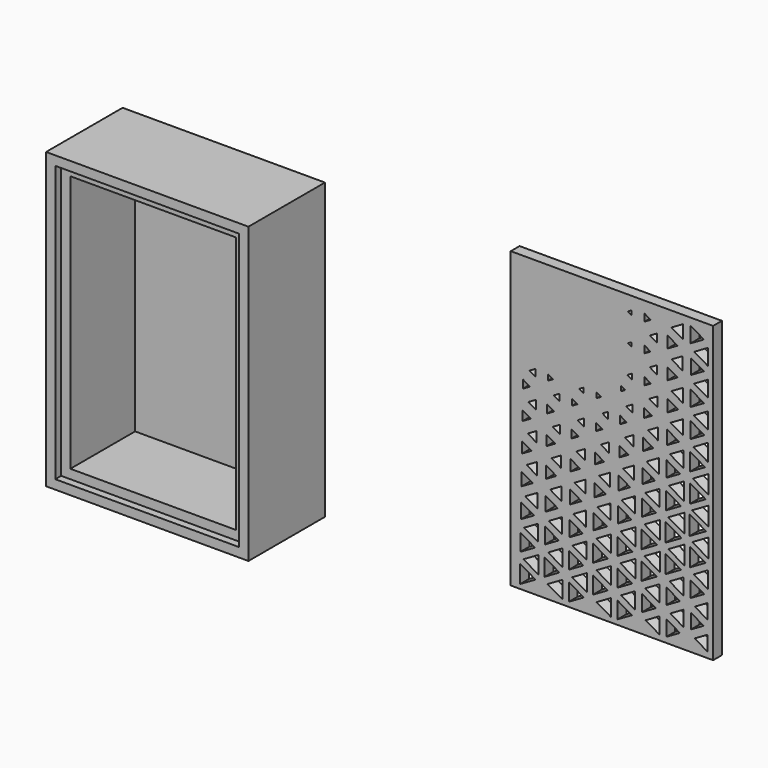
from build123d import *

# Parameters (mm, degrees)
F0_W          = 50
F0_H          = 75
F0_W_2        = 45
F0_H_2        = 70
F1_DEPTH      = 22
F0_W_3        = 55
F0_H_3        = 80
F2_DEPTH      = 24
F2_DEPTH_BACK = 2
F3_DEPTH      = 51.4
F4_DEPTH      = 3
F7_DEPTH      = 3


with BuildPart() as f1:
    # F0 (on Front) → F1 (new body)
    with BuildSketch(Plane.XZ):
        with Locations((-62.0216450095, -2.9959046841)):
            Rectangle(F0_W, F0_H)
        with Locations((-62.0216450095, -2.9959046841)):
            Rectangle(F0_W_2, F0_H_2, mode=Mode.SUBTRACT)
    extrude(amount=F1_DEPTH)

    # F0 (on Front) → F2 (join, two sides)
    with BuildSketch(Plane.XZ) as f2_sk:
        with Locations((-62.0216450095, -2.9959046841)):
            Rectangle(F0_W_3, F0_H_3)
        with Locations((-62.0216450095, -2.9959046841)):
            Rectangle(F0_W, F0_H, mode=Mode.SUBTRACT)
    extrude(amount=F2_DEPTH)
    extrude(f2_sk.sketch, amount=-F2_DEPTH_BACK)

    # F3 (add): a face of the model
    f3_faces = [f1.faces().sort_by_distance(p)[0] for p in [
        (-87.0216450095, 1, -2.9959046841),
    ]]
    extrude(f3_faces, amount=F3_DEPTH)


with BuildPart() as f4:
    # F4 (new): a face of the model
    f4_faces = [f1.part.faces().sort_by_distance(p)[0] for p in [
        (-62.0216450095, 2, -2.9959046841),
    ]]
    extrude(f4_faces, amount=F4_DEPTH)


with BuildPart() as f4_1:
    # F5: moved
    add(f4.part.moved(Location((105.5, 0, 0))))

    # F6 (on face) → F7 (cut)
    with BuildSketch(Plane(origin=(0, 5, 0), x_dir=(-1, 0, 0), z_dir=(0, 1, 0))):
        Polygon((-56.3958019513, -34.0205175695), (-52.5297159513, -31.7887845695), (-56.3958019513, -29.5567065695), align=None)
        Polygon((-69.5388409513, 19.3626154305), (-65.8109039513, 21.5151114305), (-69.5388409513, 23.6669174305), align=None)
        Polygon((-36.4969309513, -22.3995215695), (-32.9753539513, -20.3665705695), (-36.4969309513, -18.3336195695), align=None)
        Polygon((-22.9136079513, -6.4873145695), (-20.5750769513, -5.1368365695), (-22.9136079513, -3.7867035695), align=None)
        Polygon((-56.0257989513, 4.6937434305), (-53.2693779513, 6.2853774305), (-56.0257989513, 7.8766674305), align=None)
        Polygon((-69.6039539513, -26.4392405695), (-65.6803339513, -24.1737455695), (-69.6039539513, -21.9085945695), align=None)
        Polygon((-22.6524699513, 9.1940714305), (-21.0966649513, 10.0925524305), (-22.6524699513, 10.9913774305), align=None)
        Polygon((-43.2493179513, -34.0949315695), (-39.2543849513, -31.7887845695), (-43.2493179513, -29.4822925695), align=None)
        Polygon((-68.4591479513, 25.3222864305), (-64.9172459513, 23.2776214305), (-64.9172459513, 27.3669504305), align=None)
        Polygon((-42.1775489513, -20.3665705695), (-38.4909519513, -22.4949505695), (-38.4909519513, -18.2378455695), align=None)
        Polygon((-27.4780149513, 10.0925524305), (-26.0569129513, 9.2719304305), (-26.0569129513, 10.9131744305), align=None)
        Polygon((-54.3742199513, 10.0925524305), (-52.1762489513, 8.8233794305), (-52.1762489513, 11.3617254305), align=None)
        Polygon((-35.2374039513, -16.5593955695), (-32.0689489513, -18.3883965695), (-32.0689489513, -14.7297045695), align=None)
        Polygon((-21.4160249513, -1.3296615695), (-19.1956609513, -2.6112375695), (-19.1956609513, -0.0477415695), align=None)
        Polygon((-63.1492229513, -22.8742555695), (-58.8059909513, -20.3665705695), (-63.1492229513, -17.8588855695), align=None)
        Polygon((-42.8951619513, -10.6369315695), (-39.9630409513, -8.9443565695), (-42.8951619513, -7.2514365695), align=None)
        Polygon((-23.2329679513, -22.2699855695), (-19.9360119513, -20.3665705695), (-23.2329679513, -18.4631545695), align=None)
        Polygon((-55.8659459513, 12.5854234305), (-53.5890829513, 13.9000724305), (-55.8659459513, 15.2147204305), align=None)
        Polygon((-21.9627619513, -16.5593955695), (-18.9224649513, -18.3146715695), (-18.9224649513, -14.8037745695), align=None)
        Polygon((-28.0626479513, -5.1368365695), (-25.7644249513, -6.4638875695), (-25.7644249513, -3.8097855695), align=None)
        Polygon((-36.3102059513, -14.4613325695), (-33.3494909513, -12.7518755695), (-36.3102059513, -11.0424195695), align=None)
        Polygon((-49.5352389513, -6.9083045695), (-46.4670369513, -5.1368365695), (-49.5352389513, -3.3653685695), align=None)
        Polygon((-29.0527679513, -27.9812645695), (-25.2693639513, -30.1654555695), (-25.2693639513, -25.7970745695), align=None)
        Polygon((-47.9890799513, -1.3296615695), (-45.4769159513, -2.7803915695), (-45.4769159513, 0.1210684305), align=None)
        Polygon((-62.7123849513, 23.5711444305), (-59.6796669513, 25.3222864305), (-62.7123849513, 27.0727394305), align=None)
        Polygon((-53.9745889513, 25.3222864305), (-52.3760649513, 24.3993454305), (-52.3760649513, 26.2452274305), align=None)
        Polygon((-68.9559309513, -20.3665705695), (-64.6691989513, -22.8415265695), (-64.6691989513, -17.8912695695), align=None)
        Polygon((-56.5205149513, -26.6218305695), (-52.2802909513, -24.1737455695), (-56.5205149513, -21.7256605695), align=None)
        Polygon((-54.7700619513, 2.4782024305), (-51.9781559513, 0.8658974305), (-51.9781559513, 4.0894734305), align=None)
        Polygon((-49.7229969513, -14.8485605695), (-46.0911769513, -12.7518755695), (-49.7229969513, -10.6548465695), align=None)
        Polygon((-29.7576349513, -18.3411985695), (-26.6708289513, -16.5593955695), (-29.7576349513, -14.7769025695), align=None)
        Polygon((-69.7923999513, -11.5364455695), (-65.3034409513, -8.9443565695), (-69.7923999513, -6.3526105695), align=None)
        Polygon((-35.8998959513, 1.4787804305), (-34.1697689513, 2.4782024305), (-35.8998959513, 3.4765914305), align=None)
        Polygon((-49.8011999513, -37.8283815695), (-45.9351139513, -35.5963035695), (-49.8011999513, -33.3638815695), align=None)
        Polygon((-28.3795969513, -12.7518755695), (-25.6059499513, -14.3531565695), (-25.6059499513, -11.1502505695), align=None)
        Polygon((-62.9476849513, 0.3188164305), (-59.2087229513, 2.4782024305), (-62.9476849513, 4.6368994305), align=None)
        Polygon((-69.6470169513, 3.9458134305), (-65.5948959513, 6.2853774305), (-69.6470169513, 8.6249414305), align=None)
        Polygon((-48.9302799513, 16.9834324305), (-47.6762649513, 17.7072474305), (-48.9302799513, 18.4310614305), align=None)
        Polygon((-54.0290219513, 32.9369804305), (-52.3485039513, 31.9668414305), (-52.3485039513, 33.9067754305), align=None)
        Polygon((-62.2562539513, -8.9443565695), (-58.1269629513, -11.3283625695), (-58.1269629513, -6.5603505695), align=None)
        Polygon((-27.8070219513, 2.4782024305), (-25.8922379513, 1.3723264305), (-25.8922379513, 3.5833894305), align=None)
        Polygon((-68.5094469513, 17.7072474305), (-64.8920969513, 15.6191744305), (-64.8920969513, 19.7956634305), align=None)
        Polygon((-42.4255949513, 5.4058444305), (-40.9021739513, 6.2853774305), (-42.4255949513, 7.1645654305), align=None)
        Polygon((-23.0603689513, -14.3559125695), (-20.2815549513, -12.7518755695), (-23.0603689513, -11.1474945695), align=None)
        Polygon((-43.0894649513, -18.5885565695), (-39.5747789513, -16.5593955695), (-43.0894649513, -14.5298895695), align=None)
        Polygon((-62.7413229513, 15.9061514305), (-59.6217899513, 17.7072474305), (-62.7413229513, 19.5083424305), align=None)
        Polygon((-55.7122949513, -20.3665705695), (-51.5072119513, -22.7943295695), (-51.5072119513, -17.9388115695), align=None)
        Polygon((-62.2944949513, -24.1737455695), (-58.1076699513, -26.5911685695), (-58.1076699513, -21.7566665695), align=None)
        Polygon((-42.3508369513, -35.5963035695), (-38.4041349513, -37.8745455695), (-38.4041349513, -33.3177175695), align=None)
        Polygon((-68.6248579513, 10.0925524305), (-64.8342189513, 7.9042274305), (-64.8342189513, 12.2808774305), align=None)
        Polygon((-69.5767369513, 11.6821194305), (-65.7347669513, 13.9000724305), (-69.5767369513, 16.1180244305), align=None)
        Polygon((-29.4103689513, -2.5102955695), (-27.3653599513, -1.3296615695), (-29.4103689513, -0.1490275695), align=None)
        Polygon((-62.0068289513, -1.3296615695), (-58.2516749513, -3.4976605695), (-58.2516749513, 0.8386814305), align=None)
        Polygon((-55.6458049513, -27.9812645695), (-51.5402849513, -30.3514905695), (-51.5402849513, -25.6110395695), align=None)
        Polygon((-55.5173029513, -12.7518755695), (-51.6047079513, -15.0104805695), (-51.6047079513, -10.4929265695), align=None)
        Polygon((-43.2393269513, -26.4626665695), (-39.2747109513, -24.1737455695), (-43.2393269513, -21.8848235695), align=None)
        Polygon((-62.9897149513, -30.2123085695), (-59.1256959513, -27.9812645695), (-62.9897149513, -25.7505655695), align=None)
        Polygon((-21.6354779513, -8.9443565695), (-19.0861069513, -10.4161005695), (-19.0861069513, -7.4726115695), align=None)
        Polygon((-61.9789239513, -31.7887845695), (-58.2657999513, -33.9323225695), (-58.2657999513, -29.6449015695), align=None)
        Polygon((-55.7663829513, 27.9874114305), (-53.7878649513, 29.1294614305), (-55.7663829513, 30.2718544305), align=None)
        Polygon((-34.8543089513, -8.9443565695), (-32.2604969513, -10.4415945695), (-32.2604969513, -7.4471175695), align=None)
        Polygon((-22.5739219513, -31.7887845695), (-18.6168849513, -34.0732275695), (-18.6168849513, -29.5039965695), align=None)
        Polygon((-62.4061159513, -16.5593955695), (-58.0522039513, -19.0729365695), (-58.0522039513, -14.0451645695), align=None)
        Polygon((-47.5102119513, 6.2853774305), (-45.7160059513, 5.2494374305), (-45.7160059513, 7.3209734305), align=None)
        Polygon((-34.4591569513, -1.3296615695), (-32.4579009513, -2.4851465695), (-32.4579009513, -0.1741765695), align=None)
        Polygon((-61.7167519513, 6.2853774305), (-58.3967139513, 4.3685264305), (-58.3967139513, 8.2018844305), align=None)
        Polygon((-41.8037559513, -12.7518755695), (-38.6776759513, -14.5564165695), (-38.6776759513, -10.9466455695), align=None)
        Polygon((-36.6467919513, -37.8886705695), (-32.6759749513, -35.5963035695), (-36.6467919513, -33.3032485695), align=None)
        Polygon((-41.3713959513, -5.1368365695), (-38.8936839513, -6.5672405695), (-38.8936839513, -3.7064325695), align=None)
        Polygon((-36.6185419513, -30.2247105695), (-32.7324749513, -27.9812645695), (-36.6185419513, -25.7378185695), align=None)
        Polygon((-61.3229779513, 29.1294614305), (-58.5937729513, 27.5536744305), (-58.5937729513, 30.7052474305), align=None)
        Polygon((-54.0972339513, 17.7072474305), (-52.3147419513, 16.6781974305), (-52.3147419513, 18.7369864305), align=None)
        Polygon((-30.0277299513, -34.0384315695), (-26.1306379513, -31.7887845695), (-30.0277299513, -29.5387925695), align=None)
        Polygon((-61.3229779513, 21.5151114305), (-58.5937729513, 19.9393244305), (-58.5937729513, 23.0908974305), align=None)
        Polygon((-62.8953189513, -37.6633615695), (-59.3141419513, -35.5963035695), (-62.8953189513, -33.5285575695), align=None)
        Polygon((-69.0909789513, -12.7518755695), (-64.6016749513, -15.3436215695), (-64.6016749513, -10.1597855695), align=None)
        Polygon((-23.4896279513, -37.9444805695), (-19.4223479513, -35.5963035695), (-23.4896279513, -33.2474375695), align=None)
        Polygon((-61.4673269513, 13.9000724305), (-58.5214259513, 12.1992284305), (-58.5214259513, 15.6005714305), align=None)
        Polygon((-49.8838829513, -30.3563135695), (-45.7700939513, -27.9812645695), (-49.8838829513, -25.6062155695), align=None)
        Polygon((-29.2701539513, 5.3472774305), (-27.6457909513, 6.2853774305), (-29.2701539513, 7.2231324305), align=None)
        Polygon((-28.7444319513, -20.3665705695), (-25.4233599513, -22.2837655695), (-25.4233599513, -18.4486855695), align=None)
        Polygon((-49.0753189513, 9.1175904305), (-47.3868769513, 10.0925524305), (-49.0753189513, 11.0675144305), align=None)
        Polygon((-55.4432329513, -35.5963035695), (-51.6415699513, -37.7908295695), (-51.6415699513, -33.4010885695), align=None)
        Polygon((-48.8103909513, -16.5593955695), (-45.0662609513, -18.7208485695), (-45.0662609513, -14.3972535695), align=None)
        Polygon((-63.0727419513, -7.5118855695), (-58.9592979513, -5.1368365695), (-63.0727419513, -2.7621325695), align=None)
        Polygon((-23.3897199513, -30.1564985695), (-19.6225079513, -27.9812645695), (-23.3897199513, -25.8060315695), align=None)
        Polygon((-22.3210519513, -24.1737455695), (-18.7433199513, -26.2394245695), (-18.7433199513, -22.1084105695), align=None)
        Polygon((-40.8997629513, 2.4782024305), (-39.1296729513, 1.4556984305), (-39.1296729513, 3.5000174305), align=None)
        Polygon((-63.1564569513, -15.2719635695), (-58.7911769513, -12.7518755695), (-63.1564569513, -10.2310995695), align=None)
        Polygon((-69.5353959513, 26.9835114305), (-65.8181379513, 29.1294614305), (-69.5353959513, 31.2757554305), align=None)
        Polygon((-69.4458239513, -33.7800495695), (-65.9965939513, -31.7887845695), (-69.4458239513, -29.7975195695), align=None)
        Polygon((-49.0419009513, -24.1737455695), (-44.9505059513, -26.5360475695), (-44.9505059513, -21.8117875695), align=None)
        Polygon((-42.6588279513, -2.6129595695), (-40.4360529513, -1.3296615695), (-42.6588279513, -0.0463635695), align=None)
        Polygon((-69.7806869513, -19.1308145695), (-65.3268679513, -16.5593955695), (-69.7806869513, -13.9876315695), align=None)
        Polygon((-29.2153769513, -35.5963035695), (-25.1880599513, -37.9210545695), (-25.1880599513, -33.2708645695), align=None)
        Polygon((-56.5019109513, -18.9747515695), (-52.3174979513, -16.5593955695), (-56.5019109513, -14.1433495695), align=None)
        Polygon((-42.3787419513, -27.9812645695), (-38.3900109513, -30.2839665695), (-38.3900109513, -25.6785625695), align=None)
        Polygon((-29.9305789513, -26.2552715695), (-26.3249419513, -24.1737455695), (-29.9305789513, -22.0922185695), align=None)
        Polygon((-34.1246379513, 6.2853774305), (-32.6253319513, 5.4192804305), (-32.6253319513, 7.1511294305), align=None)
        Polygon((-68.9834919513, -5.1368365695), (-64.6550739513, -7.6359085695), (-64.6550739513, -2.6377645695), align=None)
        Polygon((-55.1958749513, -5.1368365695), (-51.7649049513, -7.1177665695), (-51.7649049513, -3.1559065695), align=None)
        Polygon((-35.5894919513, -24.1737455695), (-31.8929049513, -26.3083265695), (-31.8929049513, -22.0395085695), align=None)
        Polygon((-69.7296999513, -3.8118525695), (-65.4295309513, -1.3296615695), (-69.7296999513, 1.1528744305), align=None)
        Polygon((-68.4191849513, -35.5963035695), (-64.9375719513, -37.6061725695), (-64.9375719513, -33.5857465695), align=None)
        Polygon((-68.5538889513, -27.9812645695), (-64.8700479513, -30.1082665695), (-64.8700479513, -25.8542625695), align=None)
        Polygon((-49.2947709513, 1.1225574305), (-46.9472829513, 2.4782024305), (-49.2947709513, 3.8331584305), align=None)
        Polygon((-68.8153709513, 2.4782024305), (-64.7391339513, 0.1241684305), (-64.7391339513, 4.8312024305), align=None)
        Polygon((-48.4548569513, -8.9443565695), (-45.2440279513, -10.7985065695), (-45.2440279513, -7.0902055695), align=None)
        Polygon((-56.2163129513, -3.2509915695), (-52.8883499513, -1.3296615695), (-56.2163129513, 0.5916684305), align=None)
        Polygon((-21.2062189513, 6.2853774305), (-19.3003919513, 5.1846694305), (-19.3003919513, 7.3853964305), align=None)
        Polygon((-22.8119779513, 1.3034244305), (-20.7783379513, 2.4782024305), (-22.8119779513, 3.6519464305), align=None)
        Polygon((-56.3882229513, -11.1636865695), (-52.5448739513, -8.9443565695), (-56.3882229513, -6.7253705695), align=None)
        Polygon((-49.8611449513, -22.7026895695), (-45.8148799513, -20.3665705695), (-49.8611449513, -18.0304505695), align=None)
        Polygon((-48.9795449513, -31.7887845695), (-44.9815119513, -34.0969985695), (-44.9815119513, -29.4805705695), align=None)
        Polygon((-36.1021229513, -6.4859365695), (-33.7656589513, -5.1368365695), (-36.1021229513, -3.7880815695), align=None)
        Polygon((-29.5750449513, -10.4102445695), (-27.0360089513, -8.9443565695), (-29.5750449513, -7.4784685695), align=None)
        Polygon((-55.7746509513, 20.3585924305), (-53.7720169513, 21.5151114305), (-55.7746509513, 22.6709404305), align=None)
        Polygon((-35.7359089513, -31.7887845695), (-31.8198689513, -34.0494555695), (-31.8198689513, -29.5274235695), align=None)
        Polygon((-62.8277949513, 8.1415944305), (-59.4485009513, 10.0925524305), (-62.8277949513, 12.0438544305), align=None)
        Polygon((-48.8689569513, 32.3192754305), (-47.7992549513, 32.9369804305), (-48.8689569513, 33.5543414305), align=None)
        Polygon((-35.7173049513, 9.4097344305), (-34.5352929513, 10.0925524305), (-35.7173049513, 10.7753704305), align=None)
        Polygon((-48.8544879513, 24.7297294305), (-47.8281939513, 25.3222864305), (-48.8544879513, 25.9148424305), align=None)
        Polygon((-47.1395199513, 13.9000724305), (-45.9013519513, 13.1852144305), (-45.9013519513, 14.6145844305), align=None)
        Polygon((-40.5056439513, 10.0925524305), (-39.3267319513, 9.4118014305), (-39.3267319513, 10.7733034305), align=None)
        Polygon((-56.3551499513, -41.5656205695), (-52.6103309513, -39.4034785695), (-56.3551499513, -37.2409925695), align=None)
        Polygon((-30.1052449513, -41.7878295695), (-25.9752639513, -39.4034785695), (-30.1052449513, -37.0191285695), align=None)
        Polygon((-43.2341589513, -41.6837875695), (-39.2847019513, -39.4034785695), (-43.2341589513, -37.1231705695), align=None)
        Polygon((-61.9444729513, -39.4034785695), (-58.2830249513, -41.5173895695), (-58.2830249513, -37.2895685695), align=None)
        Polygon((-22.7137929513, -39.4034785695), (-18.5466049513, -41.8091895695), (-18.5466049513, -36.9977685695), align=None)
        Polygon((-48.9099539513, -39.4034785695), (-45.0166519513, -41.6514035695), (-45.0166519513, -37.1555545695), align=None)
        Polygon((-69.4699389513, -41.4364295695), (-65.9483629513, -39.4034785695), (-69.4699389513, -37.3705285695), align=None)
        Polygon((-35.8406399513, -39.4034785695), (-31.7671589513, -41.7551015695), (-31.7671589513, -37.0515125695), align=None)
        Polygon((-68.4839529513, 32.9369804305), (-64.9051879513, 30.8706124305), (-64.9051879513, 35.0033484305), align=None)
        Polygon((-62.7375339513, 31.1420854305), (-59.6293689513, 32.9369804305), (-62.7375339513, 34.7311864305), align=None)
    extrude(amount=-F7_DEPTH, mode=Mode.SUBTRACT)


solid = Compound([f1.part, f4_1.part])
